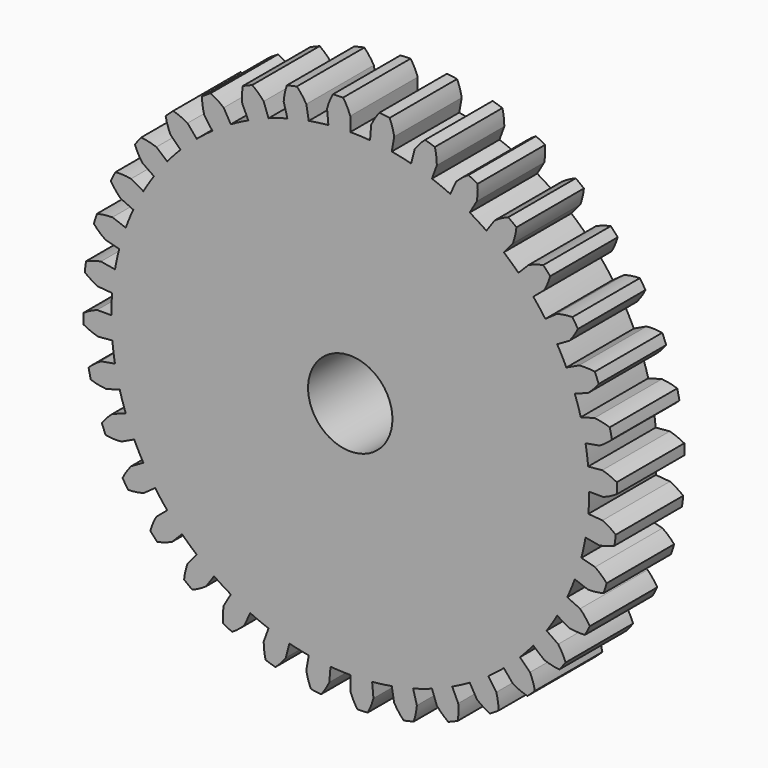
from build123d import *

# Parameters (mm, degrees)
F0_R     = 3.175
F1_DEPTH = 6.35


with BuildPart() as f1:
    # F0 (on Front) → F1 (new body)
    with BuildSketch(Plane.XZ):
        with BuildLine():
            Line((18.984693, -1.576047), (17.92155, -1.487789))
            ThreePointArc((17.92155, -1.487789), (17.967781, -0.744533), (17.9832, 0))
            Line((17.9832, 0), (19.05, 0))
            ThreePointArc((19.05, 0), (19.590077, 0.235349), (20.096965, 0.535577))
            ThreePointArc((20.096965, 0.535577), (20.082969, 0.921512), (20.061563, 1.307106))
            ThreePointArc((20.061563, 1.307106), (19.529311, 1.559653), (18.969951, 1.744554))
            Line((18.969951, 1.744554), (17.907634, 1.646859))
            ThreePointArc((17.907634, 1.646859), (17.824097, 2.386851), (17.709995, 3.12275))
            Line((17.709995, 3.12275), (18.760588, 3.307998))
            ThreePointArc((18.760588, 3.307998), (19.251592, 3.633554), (19.698645, 4.017242))
            ThreePointArc((19.698645, 4.017242), (19.617845, 4.394883), (19.529806, 4.770902))
            ThreePointArc((19.529806, 4.770902), (18.961786, 4.927188), (18.378816, 5.012148))
            Line((18.378816, 5.012148), (17.349602, 4.731467))
            ThreePointArc((17.349602, 4.731467), (17.138836, 5.445711), (16.89868, 6.150617))
            Line((16.89868, 6.150617), (17.901144, 6.515484))
            ThreePointArc((17.901144, 6.515484), (18.328157, 6.921356), (18.701791, 7.376844))
            ThreePointArc((18.701791, 7.376844), (18.556642, 7.734718), (18.404646, 8.089737))
            ThreePointArc((18.404646, 8.089737), (17.818117, 8.145012), (17.22925, 8.12745))
            Line((17.22925, 8.12745), (16.264412, 7.672313))
            ThreePointArc((16.264412, 7.672313), (15.932821, 8.339106), (15.573908, 8.9916))
            Line((15.573908, 8.9916), (16.497784, 9.525))
            ThreePointArc((16.497784, 9.525), (16.84783, 9.998856), (17.136694, 10.512306))
            ThreePointArc((17.136694, 10.512306), (16.931606, 10.839537), (16.72027, 11.162769))
            ThreePointArc((16.72027, 11.162769), (16.133053, 11.115355), (15.556182, 10.995803))
            Line((15.556182, 10.995803), (14.685036, 10.380038))
            ThreePointArc((14.685036, 10.380038), (14.242695, 10.979122), (13.77593, 11.559378))
            Line((13.77593, 11.559378), (14.593147, 12.245104))
            ThreePointArc((14.593147, 12.245104), (14.855591, 12.772546), (15.050906, 13.328356))
            ThreePointArc((15.050906, 13.328356), (14.792111, 13.615003), (14.527857, 13.896626))
            ThreePointArc((14.527857, 13.896626), (13.957794, 13.747963), (13.410448, 13.530055))
            Line((13.410448, 13.530055), (12.659463, 12.772372))
            ThreePointArc((12.659463, 12.772372), (12.119812, 13.285542), (11.559378, 13.77593))
            Line((11.559378, 13.77593), (12.245104, 14.593147))
            ThreePointArc((12.245104, 14.593147), (12.411971, 15.158149), (12.507804, 15.73943))
            ThreePointArc((12.507804, 15.73943), (12.203165, 15.976783), (11.894023, 16.208241))
            ThreePointArc((11.894023, 16.208241), (11.358435, 15.962846), (10.857243, 15.653203))
            Line((10.857243, 15.653203), (10.249238, 14.776624))
            ThreePointArc((10.249238, 14.776624), (9.628675, 15.188288), (8.9916, 15.573908))
            Line((8.9916, 15.573908), (9.525, 16.497784))
            ThreePointArc((9.525, 16.497784), (9.591221, 17.083179), (9.584659, 17.67227))
            ThreePointArc((9.584659, 17.67227), (9.243432, 17.853117), (8.898794, 18.027376))
            ThreePointArc((8.898794, 18.027376), (8.413956, 17.692706), (7.974147, 17.300736))
            Line((7.974147, 17.300736), (7.527595, 16.331895))
            ThreePointArc((7.527595, 16.331895), (6.844975, 16.629546), (6.150617, 16.89868))
            Line((6.150617, 16.89868), (6.515484, 17.901144))
            ThreePointArc((6.515484, 17.901144), (6.479046, 18.489145), (6.370289, 19.068148))
            ThreePointArc((6.370289, 19.068148), (6.002842, 19.186993), (5.633181, 19.298759))
            ThreePointArc((5.633181, 19.298759), (5.213823, 18.884982), (4.848761, 18.422595))
            Line((4.848761, 18.422595), (4.57723, 17.39093))
            ThreePointArc((4.57723, 17.39093), (4.525664, 17.40442), (4.474058, 17.417758))
            ThreePointArc((4.474058, 17.417758), (3.801213, 17.576867), (3.12275, 17.709995))
            Line((3.12275, 17.709995), (3.307998, 18.760588))
            ThreePointArc((3.307998, 18.760588), (3.170008, 19.333328), (2.962361, 19.884649))
            ThreePointArc((2.962361, 19.884649), (2.579859, 19.937883), (2.196406, 19.983759))
            ThreePointArc((2.196406, 19.983759), (1.855271, 19.503448), (1.576047, 18.984693))
            Line((1.576047, 18.984693), (1.487789, 17.92155))
            ThreePointArc((1.487789, 17.92155), (0.744533, 17.967781), (0, 17.9832))
            Line((0, 17.9832), (0, 19.05))
            ThreePointArc((0, 19.05), (-0.235349, 19.590077), (-0.535577, 20.096965))
            ThreePointArc((-0.535577, 20.096965), (-0.921512, 20.082969), (-1.307106, 20.061563))
            ThreePointArc((-1.307106, 20.061563), (-1.559653, 19.529311), (-1.744554, 18.969951))
            Line((-1.744554, 18.969951), (-1.646859, 17.907634))
            ThreePointArc((-1.646859, 17.907634), (-2.386851, 17.824097), (-3.12275, 17.709995))
            Line((-3.12275, 17.709995), (-3.307998, 18.760588))
            ThreePointArc((-3.307998, 18.760588), (-3.633554, 19.251592), (-4.017242, 19.698645))
            ThreePointArc((-4.017242, 19.698645), (-4.394883, 19.617845), (-4.770902, 19.529806))
            ThreePointArc((-4.770902, 19.529806), (-4.927188, 18.961786), (-5.012148, 18.378816))
            Line((-5.012148, 18.378816), (-4.731467, 17.349602))
            ThreePointArc((-4.731467, 17.349602), (-5.445711, 17.138836), (-6.150617, 16.89868))
            Line((-6.150617, 16.89868), (-6.515484, 17.901144))
            ThreePointArc((-6.515484, 17.901144), (-6.921356, 18.328157), (-7.376844, 18.701791))
            ThreePointArc((-7.376844, 18.701791), (-7.734718, 18.556642), (-8.089737, 18.404646))
            ThreePointArc((-8.089737, 18.404646), (-8.145012, 17.818117), (-8.12745, 17.22925))
            Line((-8.12745, 17.22925), (-7.672313, 16.264412))
            ThreePointArc((-7.672313, 16.264412), (-8.286774, 15.960102), (-8.889188, 15.632588))
            ThreePointArc((-8.889188, 15.632588), (-8.940442, 15.603332), (-8.9916, 15.573908))
            Line((-8.9916, 15.573908), (-9.525, 16.497784))
            ThreePointArc((-9.525, 16.497784), (-9.998856, 16.84783), (-10.512306, 17.136694))
            ThreePointArc((-10.512306, 17.136694), (-10.839537, 16.931606), (-11.162769, 16.72027))
            ThreePointArc((-11.162769, 16.72027), (-11.115355, 16.133053), (-10.995803, 15.556182))
            Line((-10.995803, 15.556182), (-10.380038, 14.685036))
            ThreePointArc((-10.380038, 14.685036), (-10.979122, 14.242695), (-11.559378, 13.77593))
            Line((-11.559378, 13.77593), (-12.245104, 14.593147))
            ThreePointArc((-12.245104, 14.593147), (-12.772546, 14.855591), (-13.328356, 15.050906))
            ThreePointArc((-13.328356, 15.050906), (-13.615003, 14.792111), (-13.896626, 14.527857))
            ThreePointArc((-13.896626, 14.527857), (-13.747963, 13.957794), (-13.530055, 13.410448))
            Line((-13.530055, 13.410448), (-12.772372, 12.659463))
            ThreePointArc((-12.772372, 12.659463), (-13.285542, 12.119812), (-13.77593, 11.559378))
            Line((-13.77593, 11.559378), (-14.593147, 12.245104))
            ThreePointArc((-14.593147, 12.245104), (-15.158149, 12.411971), (-15.73943, 12.507804))
            ThreePointArc((-15.73943, 12.507804), (-15.976783, 12.203165), (-16.208241, 11.894023))
            ThreePointArc((-16.208241, 11.894023), (-15.962846, 11.358435), (-15.653203, 10.857243))
            Line((-15.653203, 10.857243), (-14.776624, 10.249238))
            ThreePointArc((-14.776624, 10.249238), (-15.188288, 9.628675), (-15.573908, 8.9916))
            Line((-15.573908, 8.9916), (-16.497784, 9.525))
            ThreePointArc((-16.497784, 9.525), (-17.083179, 9.591221), (-17.67227, 9.584659))
            ThreePointArc((-17.67227, 9.584659), (-17.853117, 9.243432), (-18.027376, 8.898794))
            ThreePointArc((-18.027376, 8.898794), (-17.692706, 8.413956), (-17.300736, 7.974147))
            Line((-17.300736, 7.974147), (-16.331895, 7.527595))
            ThreePointArc((-16.331895, 7.527595), (-16.629546, 6.844975), (-16.89868, 6.150617))
            Line((-16.89868, 6.150617), (-17.901144, 6.515484))
            ThreePointArc((-17.901144, 6.515484), (-18.489145, 6.479046), (-19.068148, 6.370289))
            ThreePointArc((-19.068148, 6.370289), (-19.186993, 6.002842), (-19.298759, 5.633181))
            ThreePointArc((-19.298759, 5.633181), (-18.884982, 5.213823), (-18.422595, 4.848761))
            Line((-18.422595, 4.848761), (-17.39093, 4.57723))
            ThreePointArc((-17.39093, 4.57723), (-17.565523, 3.853294), (-17.709995, 3.12275))
            Line((-17.709995, 3.12275), (-18.760588, 3.307998))
            ThreePointArc((-18.760588, 3.307998), (-19.333328, 3.170008), (-19.884649, 2.962361))
            ThreePointArc((-19.884649, 2.962361), (-19.937883, 2.579859), (-19.983759, 2.196406))
            ThreePointArc((-19.983759, 2.196406), (-19.503448, 1.855271), (-18.984693, 1.576047))
            Line((-18.984693, 1.576047), (-17.92155, 1.487789))
            ThreePointArc((-17.92155, 1.487789), (-17.967781, 0.744533), (-17.9832, 0))
            Line((-17.9832, 0), (-19.05, 0))
            ThreePointArc((-19.05, 0), (-19.590077, -0.235349), (-20.096965, -0.535577))
            ThreePointArc((-20.096965, -0.535577), (-20.082969, -0.921512), (-20.061563, -1.307106))
            ThreePointArc((-20.061563, -1.307106), (-19.529311, -1.559653), (-18.969951, -1.744554))
            Line((-18.969951, -1.744554), (-17.907634, -1.646859))
            ThreePointArc((-17.907634, -1.646859), (-17.824097, -2.386851), (-17.709995, -3.12275))
            Line((-17.709995, -3.12275), (-18.760588, -3.307998))
            ThreePointArc((-18.760588, -3.307998), (-19.251592, -3.633554), (-19.698645, -4.017242))
            ThreePointArc((-19.698645, -4.017242), (-19.617845, -4.394883), (-19.529806, -4.770902))
            ThreePointArc((-19.529806, -4.770902), (-18.961786, -4.927188), (-18.378816, -5.012148))
            Line((-18.378816, -5.012148), (-17.349602, -4.731467))
            ThreePointArc((-17.349602, -4.731467), (-17.138836, -5.445711), (-16.89868, -6.150617))
            Line((-16.89868, -6.150617), (-17.901144, -6.515484))
            ThreePointArc((-17.901144, -6.515484), (-18.328157, -6.921356), (-18.701791, -7.376844))
            ThreePointArc((-18.701791, -7.376844), (-18.556642, -7.734718), (-18.404646, -8.089737))
            ThreePointArc((-18.404646, -8.089737), (-17.818117, -8.145012), (-17.22925, -8.12745))
            Line((-17.22925, -8.12745), (-16.264412, -7.672313))
            ThreePointArc((-16.264412, -7.672313), (-15.932821, -8.339106), (-15.573908, -8.9916))
            Line((-15.573908, -8.9916), (-16.497784, -9.525))
            ThreePointArc((-16.497784, -9.525), (-16.84783, -9.998856), (-17.136694, -10.512306))
            ThreePointArc((-17.136694, -10.512306), (-16.931606, -10.839537), (-16.72027, -11.162769))
            ThreePointArc((-16.72027, -11.162769), (-16.133053, -11.115355), (-15.556182, -10.995803))
            Line((-15.556182, -10.995803), (-14.685036, -10.380038))
            ThreePointArc((-14.685036, -10.380038), (-14.242695, -10.979122), (-13.77593, -11.559378))
            Line((-13.77593, -11.559378), (-14.593147, -12.245104))
            ThreePointArc((-14.593147, -12.245104), (-14.855591, -12.772546), (-15.050906, -13.328356))
            ThreePointArc((-15.050906, -13.328356), (-14.792111, -13.615003), (-14.527857, -13.896626))
            ThreePointArc((-14.527857, -13.896626), (-13.957794, -13.747963), (-13.410448, -13.530055))
            Line((-13.410448, -13.530055), (-12.659463, -12.772372))
            ThreePointArc((-12.659463, -12.772372), (-12.119812, -13.285542), (-11.559378, -13.77593))
            Line((-11.559378, -13.77593), (-12.245104, -14.593147))
            ThreePointArc((-12.245104, -14.593147), (-12.411971, -15.158149), (-12.507804, -15.73943))
            ThreePointArc((-12.507804, -15.73943), (-12.203165, -15.976783), (-11.894023, -16.208241))
            ThreePointArc((-11.894023, -16.208241), (-11.358435, -15.962846), (-10.857243, -15.653203))
            Line((-10.857243, -15.653203), (-10.249238, -14.776624))
            ThreePointArc((-10.249238, -14.776624), (-9.628675, -15.188288), (-8.9916, -15.573908))
            Line((-8.9916, -15.573908), (-9.525, -16.497784))
            ThreePointArc((-9.525, -16.497784), (-9.591221, -17.083179), (-9.584659, -17.67227))
            ThreePointArc((-9.584659, -17.67227), (-9.243432, -17.853117), (-8.898794, -18.027376))
            ThreePointArc((-8.898794, -18.027376), (-8.413956, -17.692706), (-7.974147, -17.300736))
            Line((-7.974147, -17.300736), (-7.527595, -16.331895))
            ThreePointArc((-7.527595, -16.331895), (-6.844975, -16.629546), (-6.150617, -16.89868))
            Line((-6.150617, -16.89868), (-6.515484, -17.901144))
            ThreePointArc((-6.515484, -17.901144), (-6.479046, -18.489145), (-6.370289, -19.068148))
            ThreePointArc((-6.370289, -19.068148), (-6.002842, -19.186993), (-5.633181, -19.298759))
            ThreePointArc((-5.633181, -19.298759), (-5.213823, -18.884982), (-4.848761, -18.422595))
            Line((-4.848761, -18.422595), (-4.57723, -17.39093))
            ThreePointArc((-4.57723, -17.39093), (-3.853294, -17.565523), (-3.12275, -17.709995))
            Line((-3.12275, -17.709995), (-3.307998, -18.760588))
            ThreePointArc((-3.307998, -18.760588), (-3.170008, -19.333328), (-2.962361, -19.884649))
            ThreePointArc((-2.962361, -19.884649), (-2.579859, -19.937883), (-2.196406, -19.983759))
            ThreePointArc((-2.196406, -19.983759), (-1.855271, -19.503448), (-1.576047, -18.984693))
            Line((-1.576047, -18.984693), (-1.487789, -17.92155))
            ThreePointArc((-1.487789, -17.92155), (-0.744533, -17.967781), (0, -17.9832))
            Line((0, -17.9832), (0, -19.05))
            ThreePointArc((0, -19.05), (0.235349, -19.590077), (0.535577, -20.096965))
            ThreePointArc((0.535577, -20.096965), (0.921512, -20.082969), (1.307106, -20.061563))
            ThreePointArc((1.307106, -20.061563), (1.559653, -19.529311), (1.744554, -18.969951))
            Line((1.744554, -18.969951), (1.646859, -17.907634))
            ThreePointArc((1.646859, -17.907634), (2.386851, -17.824097), (3.12275, -17.709995))
            Line((3.12275, -17.709995), (3.307998, -18.760588))
            ThreePointArc((3.307998, -18.760588), (3.633554, -19.251592), (4.017242, -19.698645))
            ThreePointArc((4.017242, -19.698645), (4.394883, -19.617845), (4.770902, -19.529806))
            ThreePointArc((4.770902, -19.529806), (4.927188, -18.961786), (5.012148, -18.378816))
            Line((5.012148, -18.378816), (4.731467, -17.349602))
            ThreePointArc((4.731467, -17.349602), (5.445711, -17.138836), (6.150617, -16.89868))
            Line((6.150617, -16.89868), (6.515484, -17.901144))
            ThreePointArc((6.515484, -17.901144), (6.921356, -18.328157), (7.376844, -18.701791))
            ThreePointArc((7.376844, -18.701791), (7.734718, -18.556642), (8.089737, -18.404646))
            ThreePointArc((8.089737, -18.404646), (8.145012, -17.818117), (8.12745, -17.22925))
            Line((8.12745, -17.22925), (7.672313, -16.264412))
            ThreePointArc((7.672313, -16.264412), (8.339106, -15.932821), (8.9916, -15.573908))
            Line((8.9916, -15.573908), (9.525, -16.497784))
            ThreePointArc((9.525, -16.497784), (9.998856, -16.84783), (10.512306, -17.136694))
            ThreePointArc((10.512306, -17.136694), (10.839537, -16.931606), (11.162769, -16.72027))
            ThreePointArc((11.162769, -16.72027), (11.115355, -16.133053), (10.995803, -15.556182))
            Line((10.995803, -15.556182), (10.380038, -14.685036))
            ThreePointArc((10.380038, -14.685036), (10.979122, -14.242695), (11.559378, -13.77593))
            Line((11.559378, -13.77593), (12.245104, -14.593147))
            ThreePointArc((12.245104, -14.593147), (12.772546, -14.855591), (13.328356, -15.050906))
            ThreePointArc((13.328356, -15.050906), (13.615003, -14.792111), (13.896626, -14.527857))
            ThreePointArc((13.896626, -14.527857), (13.747963, -13.957794), (13.530055, -13.410448))
            Line((13.530055, -13.410448), (12.772372, -12.659463))
            ThreePointArc((12.772372, -12.659463), (13.285542, -12.119812), (13.77593, -11.559378))
            Line((13.77593, -11.559378), (14.593147, -12.245104))
            ThreePointArc((14.593147, -12.245104), (15.158149, -12.411971), (15.73943, -12.507804))
            ThreePointArc((15.73943, -12.507804), (15.976783, -12.203165), (16.208241, -11.894023))
            ThreePointArc((16.208241, -11.894023), (15.962846, -11.358435), (15.653203, -10.857243))
            Line((15.653203, -10.857243), (14.776624, -10.249238))
            ThreePointArc((14.776624, -10.249238), (15.188288, -9.628675), (15.573908, -8.9916))
            Line((15.573908, -8.9916), (16.497784, -9.525))
            ThreePointArc((16.497784, -9.525), (17.083179, -9.591221), (17.67227, -9.584659))
            ThreePointArc((17.67227, -9.584659), (17.853117, -9.243432), (18.027376, -8.898794))
            ThreePointArc((18.027376, -8.898794), (17.692706, -8.413956), (17.300736, -7.974147))
            Line((17.300736, -7.974147), (16.331895, -7.527595))
            ThreePointArc((16.331895, -7.527595), (16.629546, -6.844975), (16.89868, -6.150617))
            Line((16.89868, -6.150617), (17.901144, -6.515484))
            ThreePointArc((17.901144, -6.515484), (18.489145, -6.479046), (19.068148, -6.370289))
            ThreePointArc((19.068148, -6.370289), (19.186993, -6.002842), (19.298759, -5.633181))
            ThreePointArc((19.298759, -5.633181), (18.884982, -5.213823), (18.422595, -4.848761))
            Line((18.422595, -4.848761), (17.39093, -4.57723))
            ThreePointArc((17.39093, -4.57723), (17.565523, -3.853294), (17.709995, -3.12275))
            Line((17.709995, -3.12275), (18.760588, -3.307998))
            ThreePointArc((18.760588, -3.307998), (19.333328, -3.170008), (19.884649, -2.962361))
            ThreePointArc((19.884649, -2.962361), (19.937883, -2.579859), (19.983759, -2.196406))
            ThreePointArc((19.983759, -2.196406), (19.503448, -1.855271), (18.984693, -1.576047))
        make_face()
        Circle(F0_R, mode=Mode.SUBTRACT)
    extrude(amount=F1_DEPTH)


solid = f1.part
